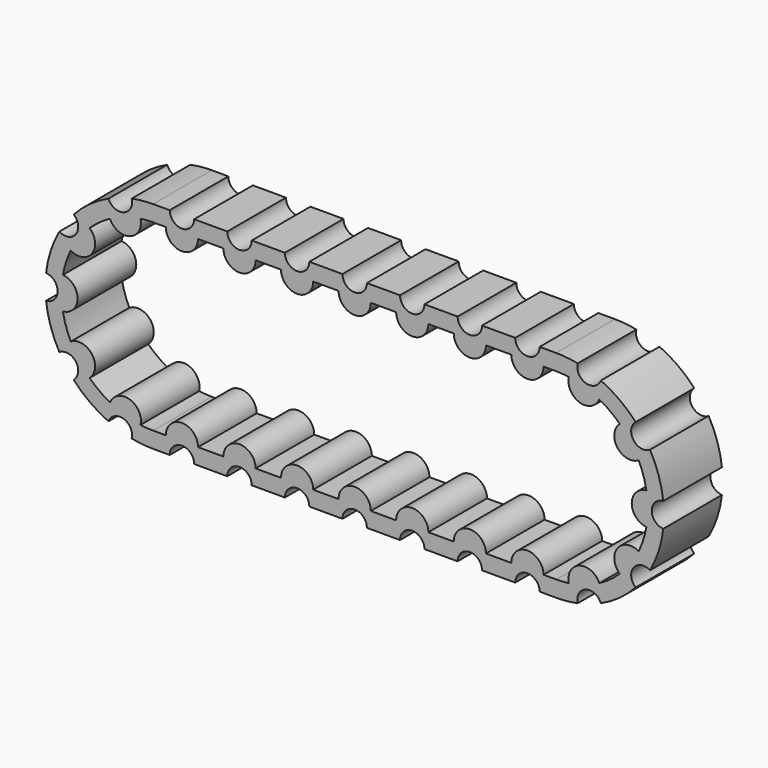
from build123d import *

# Parameters (mm, degrees)
F3_DEPTH = 38.1
F4_R     = 6.35
F5_DEPTH = 38.101


with BuildPart() as f3:
    # F2 (on Front) → F3 (new body)
    with BuildSketch(Plane.XZ):
        with BuildLine():
            Line((209.46872, 55.997023), (0, 55.997023))
            ThreePointArc((0, 55.997023), (-55.997023, 0), (0, -55.997023))
            Line((0, -55.997023), (209.46872, -55.997023))
            ThreePointArc((209.46872, -55.997023), (265.465743, 0), (209.46872, 55.997023))
        make_face()
        with BuildLine():
            ThreePointArc((-6.55809, 47.171306), (-3.286882, 47.511441), (0, 47.625))
            Line((0, 47.625), (6.591117, 47.625))
            ThreePointArc((6.591117, 47.625), (14.96314, 39.252977), (23.335163, 47.625))
            Line((23.335163, 47.625), (36.514857, 47.625))
            ThreePointArc((36.514857, 47.625), (44.88688, 39.252977), (53.258903, 47.625))
            Line((53.258903, 47.625), (66.438597, 47.625))
            ThreePointArc((66.438597, 47.625), (74.81062, 39.252977), (83.182643, 47.625))
            Line((83.182643, 47.625), (96.362337, 47.625))
            ThreePointArc((96.362337, 47.625), (104.73436, 39.252977), (113.106383, 47.625))
            Line((113.106383, 47.625), (126.286077, 47.625))
            ThreePointArc((126.286077, 47.625), (134.6581, 39.252977), (143.030123, 47.625))
            Line((143.030123, 47.625), (156.209817, 47.625))
            ThreePointArc((156.209817, 47.625), (164.58184, 39.252977), (172.953863, 47.625))
            Line((172.953863, 47.625), (186.133557, 47.625))
            ThreePointArc((186.133557, 47.625), (194.50558, 39.252977), (202.877603, 47.625))
            Line((202.877603, 47.625), (209.46872, 47.625))
            ThreePointArc((209.46872, 47.625), (212.755602, 47.511441), (216.02681, 47.171306))
            ThreePointArc((216.02681, 47.171306), (221.598557, 37.3318), (231.889711, 42.017137))
            ThreePointArc((231.889711, 42.017137), (237.461993, 38.529434), (242.500924, 34.307639))
            ThreePointArc((242.500924, 34.307639), (241.225046, 23.072321), (252.304736, 20.813849))
            ThreePointArc((252.304736, 20.813849), (254.762787, 14.716934), (256.357859, 8.339621))
            ThreePointArc((256.357859, 8.339621), (248.721697, 0), (256.357859, -8.339621))
            ThreePointArc((256.357859, -8.339621), (254.762787, -14.716934), (252.304736, -20.813849))
            ThreePointArc((252.304736, -20.813849), (241.225046, -23.072321), (242.500924, -34.307639))
            ThreePointArc((242.500924, -34.307639), (237.461993, -38.529434), (231.889711, -42.017137))
            ThreePointArc((231.889711, -42.017137), (221.598557, -37.3318), (216.02681, -47.171306))
            ThreePointArc((216.02681, -47.171306), (212.755602, -47.511441), (209.46872, -47.625))
            Line((209.46872, -47.625), (202.877603, -47.625))
            ThreePointArc((202.877603, -47.625), (194.50558, -39.252977), (186.133557, -47.625))
            Line((186.133557, -47.625), (172.953863, -47.625))
            ThreePointArc((172.953863, -47.625), (164.58184, -39.252977), (156.209817, -47.625))
            Line((156.209817, -47.625), (143.030123, -47.625))
            ThreePointArc((143.030123, -47.625), (134.6581, -39.252977), (126.286077, -47.625))
            Line((126.286077, -47.625), (113.106383, -47.625))
            ThreePointArc((113.106383, -47.625), (104.73436, -39.252977), (96.362337, -47.625))
            Line((96.362337, -47.625), (83.182643, -47.625))
            ThreePointArc((83.182643, -47.625), (74.81062, -39.252977), (66.438597, -47.625))
            Line((66.438597, -47.625), (53.258903, -47.625))
            ThreePointArc((53.258903, -47.625), (44.88688, -39.252977), (36.514857, -47.625))
            Line((36.514857, -47.625), (23.335163, -47.625))
            ThreePointArc((23.335163, -47.625), (14.96314, -39.252977), (6.591117, -47.625))
            Line((6.591117, -47.625), (0, -47.625))
            ThreePointArc((0, -47.625), (-3.286882, -47.511441), (-6.55809, -47.171306))
            ThreePointArc((-6.55809, -47.171306), (-12.129837, -37.3318), (-22.420991, -42.017137))
            ThreePointArc((-22.420991, -42.017137), (-27.993273, -38.529434), (-33.032204, -34.307639))
            ThreePointArc((-33.032204, -34.307639), (-31.756326, -23.072321), (-42.836016, -20.813849))
            ThreePointArc((-42.836016, -20.813849), (-45.294067, -14.716934), (-46.889139, -8.339621))
            ThreePointArc((-46.889139, -8.339621), (-39.252977, 0), (-46.889139, 8.339621))
            ThreePointArc((-46.889139, 8.339621), (-45.294067, 14.716934), (-42.836016, 20.813849))
            ThreePointArc((-42.836016, 20.813849), (-31.756326, 23.072321), (-33.032204, 34.307639))
            ThreePointArc((-33.032204, 34.307639), (-27.993273, 38.529434), (-22.420991, 42.017137))
            ThreePointArc((-22.420991, 42.017137), (-12.129837, 37.3318), (-6.55809, 47.171306))
        make_face(mode=Mode.SUBTRACT)
    extrude(amount=-F3_DEPTH)

    # F4 (on face) → F5 (cut, through all)
    with BuildSketch(Plane.XZ):
        with Locations((-17.304032, 53.256333)):
            Circle(F4_R)
        with Locations((14.96314, 55.997023)):
            Circle(F4_R)
        with Locations((44.88688, 55.997023)):
            Circle(F4_R)
        with Locations((74.81062, 55.997023)):
            Circle(F4_R)
        with Locations((104.73436, 55.997023)):
            Circle(F4_R)
        with Locations((-45.302543, 32.914224)):
            Circle(F4_R)
        with Locations((-55.997023, 0)):
            Circle(F4_R)
        with Locations((265.465743, 0)):
            Circle(F4_R)
        with Locations((254.771263, 32.914224)):
            Circle(F4_R)
        with Locations((226.772752, 53.256333)):
            Circle(F4_R)
        with Locations((194.50558, 55.997023)):
            Circle(F4_R)
        with Locations((164.58184, 55.997023)):
            Circle(F4_R)
        with Locations((134.6581, 55.997023)):
            Circle(F4_R)
        with Locations((-45.302543, -32.914224)):
            Circle(F4_R)
        with Locations((-17.304032, -53.256333)):
            Circle(F4_R)
        with Locations((14.96314, -55.997023)):
            Circle(F4_R)
        with Locations((44.88688, -55.997023)):
            Circle(F4_R)
        with Locations((74.81062, -55.997023)):
            Circle(F4_R)
        with Locations((104.73436, -55.997023)):
            Circle(F4_R)
        with Locations((134.6581, -55.997023)):
            Circle(F4_R)
        with Locations((164.58184, -55.997023)):
            Circle(F4_R)
        with Locations((194.50558, -55.997023)):
            Circle(F4_R)
        with Locations((226.772752, -53.256333)):
            Circle(F4_R)
        with Locations((254.771263, -32.914224)):
            Circle(F4_R)
    extrude(amount=-F5_DEPTH, mode=Mode.SUBTRACT)


solid = f3.part
